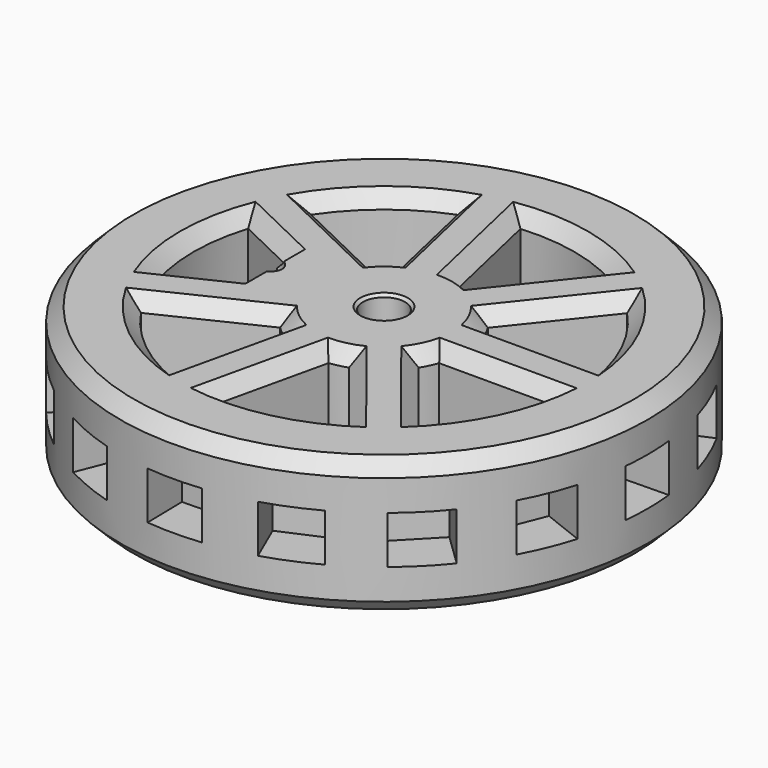
from build123d import *

# Parameters (mm, degrees)
CYLINDER002_R           = 1.55
CYLINDER002_DEPTH       = 20
BOX001_W                = 4
BOX001_H                = 10
BOX001_DEPTH            = 3.5
BOX001_PLACEMENT_ANGLE  = 1
ARRAY_COUNT             = 16
CYLINDER004_R           = 1.45
CYLINDER004_DEPTH       = 50
CYLINDER004_PITCH_ANGLE = -60
BOX002_W                = 10
BOX002_H                = 4
BOX002_DEPTH            = 10
ARRAY001_COUNT          = 7
CYLINDER003_R           = 6
CYLINDER003_DEPTH       = 10
CYLINDER001_R           = 14
CYLINDER001_DEPTH       = 10
CYLINDER_R              = 19.4
CYLINDER_DEPTH          = 10
BOX_W                   = 5
BOX_H                   = 8
BOX_DEPTH               = 10
CHAMFER001_SIZE         = 2
CHAMFER_SIZE            = 1
CHAMFER002_SIZE         = 0.2


with BuildPart() as eje:
    # Cylinder002 → Cylinder002 (new body)
    with BuildSketch(Plane.XY):
        Circle(CYLINDER002_R)
    extrude(amount=CYLINDER002_DEPTH)


with BuildPart() as array:
    # Box001 → Box001 (new body)
    with BuildSketch(Plane.XY):
        with Locations((2, 5)):
            Rectangle(BOX001_W, BOX001_H)
    extrude(amount=BOX001_DEPTH)


with BuildPart() as array_1:
    # Box001 placement: moved
    add(array.part.moved(Location((-2, 16, 3.25))).rotate(Axis((-2, 16, 3.25), (0, 0, 1)), BOX001_PLACEMENT_ANGLE))

    # Array: Array ×16 about axis
    array_axis = Axis((0, 0, 0), (0, 0, 1))


with BuildPart() as array_2:
    add(array_1.part)
    for i in range(1, ARRAY_COUNT):
        add(array_1.part.rotate(array_axis, i * 360 / ARRAY_COUNT))


with BuildPart() as fusion002:
    # Cylinder004 → Cylinder004 (new body)
    with BuildSketch(Plane.XY):
        Circle(CYLINDER004_R)
    extrude(amount=CYLINDER004_DEPTH)


with BuildPart() as fusion002_1:
    # Cylinder004 pitch: moved
    add(fusion002.part.rotate(Axis((0, 0, 0), (0, 1, 0)), CYLINDER004_PITCH_ANGLE))


with BuildPart() as fusion002_2:
    # Cylinder004 placement: moved
    add(fusion002_1.part.moved(Location((0, 0, 4))))

    # Fusion002: union eje, Array
    add(eje.part)
    add(array_2.part)


with BuildPart() as array001:
    # Box002 → Box002 (new body)
    with BuildSketch(Plane(origin=(5, -2, 0), x_dir=(1, 0, 0), z_dir=(0, 0, 1))):
        with Locations((5, 2)):
            Rectangle(BOX002_W, BOX002_H)
    extrude(amount=BOX002_DEPTH)

    # Array001: Array001 ×7 about axis
    array001_axis = Axis((0, 0, 0), (0, 0, 1))


with BuildPart() as array001_1:
    add(array001.part)
    for i in range(1, ARRAY001_COUNT):
        add(array001.part.rotate(array001_axis, i * 360 / ARRAY001_COUNT))


with BuildPart() as obj1:
    # Cylinder003 → Cylinder003 (new body)
    with BuildSketch(Plane.XY):
        Circle(CYLINDER003_R)
    extrude(amount=CYLINDER003_DEPTH)


with BuildPart() as cilindro001:
    # Cylinder001 → Cylinder001 (new body)
    with BuildSketch(Plane.XY):
        Circle(CYLINDER001_R)
    extrude(amount=CYLINDER001_DEPTH)


with BuildPart() as fusion:
    # Cylinder → Cylinder (new body)
    with BuildSketch(Plane.XY):
        Circle(CYLINDER_R)
    extrude(amount=CYLINDER_DEPTH)

    # Cut: cut Cilindro001
    add(cilindro001.part, mode=Mode.SUBTRACT)

    # Fusion: union Array001, obj1
    add(array001_1.part)
    add(obj1.part)


with BuildPart() as chamfer002:
    # Box → Box (new body)
    with BuildSketch(Plane(origin=(-9, -4, 0), x_dir=(1, 0, 0), z_dir=(0, 0, 1))):
        with Locations((2.5, 4)):
            Rectangle(BOX_W, BOX_H)
    extrude(amount=BOX_DEPTH)

    # Chamfer001
    chamfer001_edges = [chamfer002.edges().sort_by_distance(p)[0] for p in [
        (-4, -4, 5),
        (-4, 4, 5),
    ]]
    chamfer(chamfer001_edges, length=CHAMFER001_SIZE)

    # Fusion001: union Fusion
    add(fusion.part)

    # Chamfer
    chamfer_edges = [chamfer002.edges().sort_by_distance(p)[0] for p in [
        (-19.4, 0, 10),
        (-19.4, 0, 0),
        (-3.740939, -4.690989, 10),
        (-4.12091, -9.066969, 10),
        (-8.728857, -10.945641, 10),
        (-7.922653, -6.035181, 10),
        (-3.740939, 4.690989, 10),
        (-7.922653, 6.035181, 10),
        (-8.728857, 10.945641, 10),
        (-4.12091, 9.066969, 10),
        (1.335126, 5.849567, 10),
        (-0.221199, 9.957053, 10),
        (3.115293, 13.648991, 10),
        (4.519497, 8.87502, 10),
        (1.335126, -5.849567, 10),
        (4.519497, -8.87502, 10),
        (3.115293, -13.648991, 10),
        (-0.221199, -9.957053, 10),
        (5.405813, 2.603302, 10),
        (7.646822, 6.381061, 10),
        (12.613564, 6.074372, 10),
        (9.75663, 2, 10),
        (5.405813, -2.603302, 10),
        (9.75663, -2, 10),
        (12.613564, -6.074372, 10),
        (7.646822, -6.381061, 10),
        (-11.175979, 3.162235, 10),
        (-9, 0, 10),
        (-11.175979, -3.162235, 10),
        (-14, 0, 10),
        (-3.740939, -4.690989, 0),
        (-7.922653, -6.035181, 0),
        (-4.12091, -9.066969, 0),
        (-8.728857, -10.945641, 0),
        (-3.740939, 4.690989, 0),
        (-4.12091, 9.066969, 0),
        (-7.922653, 6.035181, 0),
        (-8.728857, 10.945641, 0),
        (1.335126, 5.849567, 0),
        (4.519497, 8.87502, 0),
        (-0.221199, 9.957053, 0),
        (3.115293, 13.648991, 0),
        (1.335126, -5.849567, 0),
        (-0.221199, -9.957053, 0),
        (4.519497, -8.87502, 0),
        (3.115293, -13.648991, 0),
        (5.405813, 2.603302, 0),
        (9.75663, 2, 0),
        (7.646822, 6.381061, 0),
        (12.613564, 6.074372, 0),
        (5.405813, -2.603302, 0),
        (7.646822, -6.381061, 0),
        (9.75663, -2, 0),
        (12.613564, -6.074372, 0),
        (-11.175979, 3.162235, 0),
        (-14, 0, 0),
        (-11.175979, -3.162235, 0),
        (-9, 0, 0),
    ]]
    chamfer(chamfer_edges, length=CHAMFER_SIZE)

    # Cut001: cut Fusion002
    add(fusion002_2.part, mode=Mode.SUBTRACT)

    # Chamfer002
    chamfer002_edges = [chamfer002.edges().sort_by_distance(p)[0] for p in [
        (-1.55, 0, 0),
        (-1.55, 0, 10),
    ]]
    chamfer(chamfer002_edges, length=CHAMFER002_SIZE)


solid = chamfer002.part
